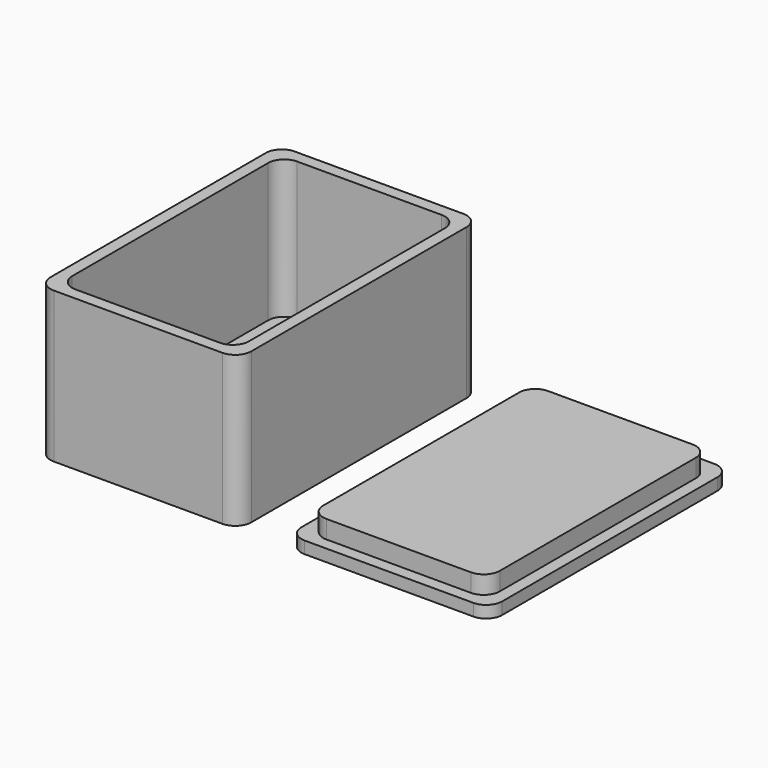
from build123d import *

# Parameters (mm, degrees)
F4_W      = 20
F4_H      = 30
F5_DEPTH  = 15
F6_W      = 17.6
F6_H      = 27.6
F7_DEPTH  = 13.8
F8_R      = 1.6
F9_W      = 20
F9_H      = 30
F10_DEPTH = 1.2
F11_W     = 17.6
F11_H     = 27.6
F12_DEPTH = 1.8
F13_R     = 1.6


with BuildPart() as f5:
    # F4 (on Top) → F5 (new body)
    with BuildSketch(Plane.XY):
        Rectangle(F4_W, F4_H)
    extrude(amount=F5_DEPTH)

    # F6 (on face) → F7 (cut)
    with BuildSketch(Plane.XY.offset(15)):
        Rectangle(F6_W, F6_H)
    extrude(amount=-F7_DEPTH, mode=Mode.SUBTRACT)

    # F8
    f8_edges = [f5.edges().sort_by_distance(p)[0] for p in [
        (10, 15, 7.5),
        (10, -15, 7.5),
        (-10, -15, 7.5),
        (-10, 15, 7.5),
        (-8.8, 13.8, 8.1),
        (8.8, 13.8, 8.1),
        (8.8, -13.8, 8.1),
        (-8.8, -13.8, 8.1),
    ]]
    fillet(f8_edges, radius=F8_R)


with BuildPart() as f10:
    # F9 (on Top) → F10 (new body)
    with BuildSketch(Plane.XY):
        with Locations((25, 0)):
            Rectangle(F9_W, F9_H)
    extrude(amount=F10_DEPTH)

    # F11 (on face) → F12 (join)
    with BuildSketch(Plane.XY.offset(1.2)):
        with Locations((25, 0)):
            Rectangle(F11_W, F11_H)
    extrude(amount=F12_DEPTH)

    # F13
    f13_edges = [f10.edges().sort_by_distance(p)[0] for p in [
        (35, 15, 0.6),
        (33.8, 13.8, 2.1),
        (33.8, -13.8, 2.1),
        (35, -15, 0.6),
        (16.2, -13.8, 2.1),
        (15, -15, 0.6),
        (15, 15, 0.6),
        (16.2, 13.8, 2.1),
    ]]
    fillet(f13_edges, radius=F13_R)


solid = Compound([f5.part, f10.part])
